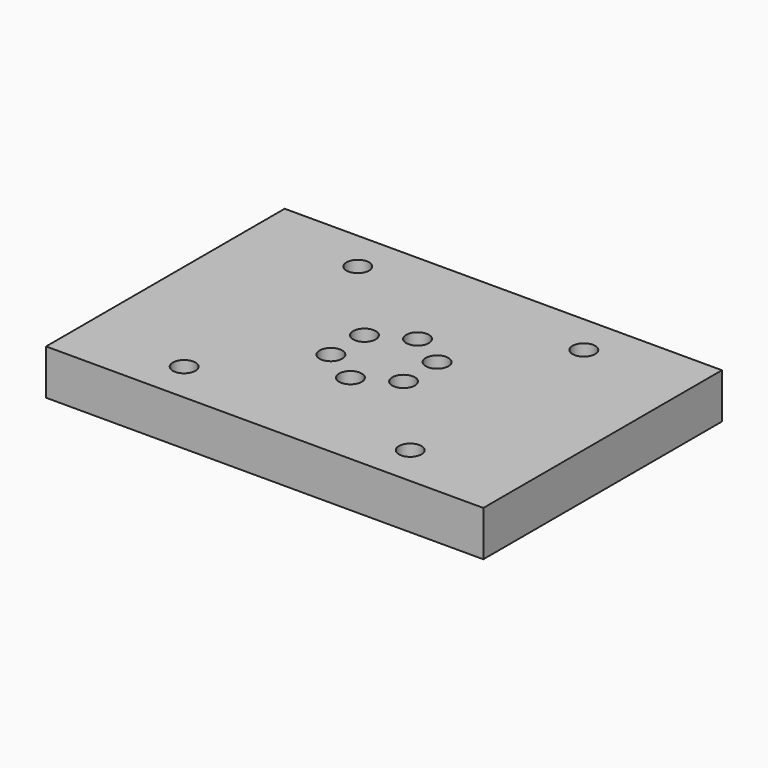
from build123d import *

# Parameters (mm, degrees)
F0_W     = 122.821604
F0_H     = 83.77427
F0_R     = 3.175
F1_DEPTH = 12.7


with BuildPart() as f1:
    # F0 (on Top) → F1 (new body)
    with BuildSketch(Plane.XY):
        Rectangle(F0_W, F0_H)
        with Locations((-31.75, -30.48)):
            Circle(F0_R, mode=Mode.SUBTRACT)
        with Locations((-10.203342, -5.890902)):
            Circle(F0_R, mode=Mode.SUBTRACT)
        with Locations((31.75, -30.48)):
            Circle(F0_R, mode=Mode.SUBTRACT)
        with Locations((0, -11.781804)):
            Circle(F0_R, mode=Mode.SUBTRACT)
        with Locations((10.203342, -5.890902)):
            Circle(F0_R, mode=Mode.SUBTRACT)
        with Locations((-10.203342, 5.890902)):
            Circle(F0_R, mode=Mode.SUBTRACT)
        with Locations((-31.75, 30.48)):
            Circle(F0_R, mode=Mode.SUBTRACT)
        with Locations((10.203342, 5.890902)):
            Circle(F0_R, mode=Mode.SUBTRACT)
        with Locations((0, 11.781804)):
            Circle(F0_R, mode=Mode.SUBTRACT)
        with Locations((31.75, 30.48)):
            Circle(F0_R, mode=Mode.SUBTRACT)
    extrude(amount=F1_DEPTH)


solid = f1.part
